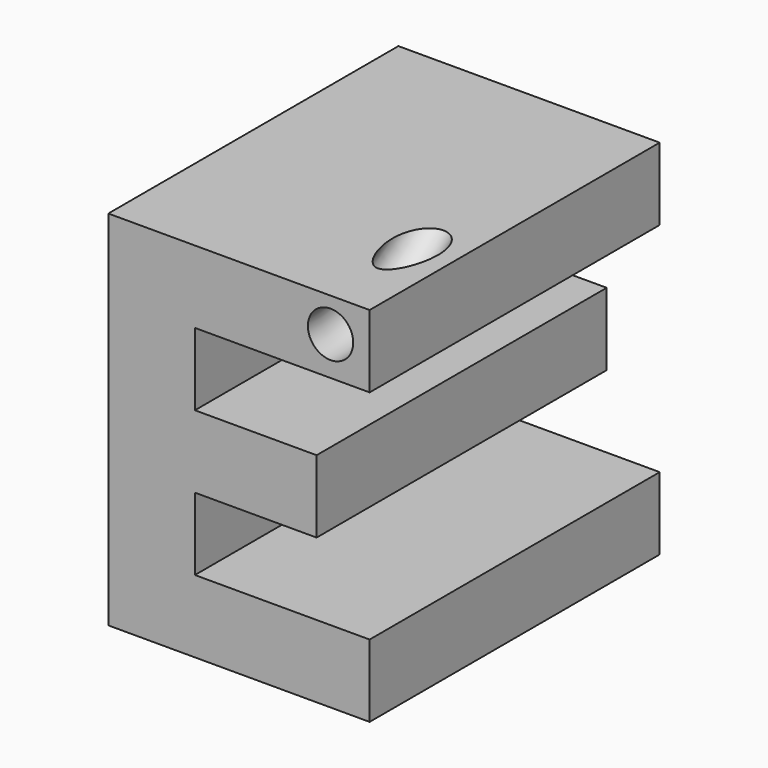
from build123d import *

# Parameters (mm, degrees)
F0_W     = 25.4
F0_H     = 25.4
F1_DEPTH = 25.4
F2_W     = 4.02581
F2_H     = 25.4
F3_DEPTH = 25.4
F4_R     = 1.5875


with BuildPart() as f1:
    # F0 (on Front) → F1 (new body)
    with BuildSketch(Plane.XZ):
        with Locations((12.7, 12.7)):
            Rectangle(F0_W, F0_H)
    extrude(amount=F1_DEPTH)

    # F2 (on face) → F3 (cut)
    with BuildSketch(Plane.XZ.offset(25.4)):
        with Locations((2.012905, 12.7)):
            Rectangle(F2_W, F2_H)
        Polygon((25.4, 25.4), (22.33037, 25.4), (22.33037, 20.32), (10.092464, 20.32), (10.092464, 15.24), (18.617159, 15.24), (18.617159, 10.16), (10.092464, 10.16), (10.092464, 5.08), (22.33037, 5.08), (22.33037, 0), (25.4, 0), align=None)
    extrude(amount=-F3_DEPTH, mode=Mode.SUBTRACT)

    # F4 (on face) → F5 (revolve, cut)
    with BuildSketch(Plane.XZ.offset(25.4)):
        with Locations((19.594045, 23.011442)):
            Circle(F4_R)
    revolve(axis=Axis((19.811029, -25.4, 35.711442), (1, 0, 0)), mode=Mode.SUBTRACT)


solid = f1.part
